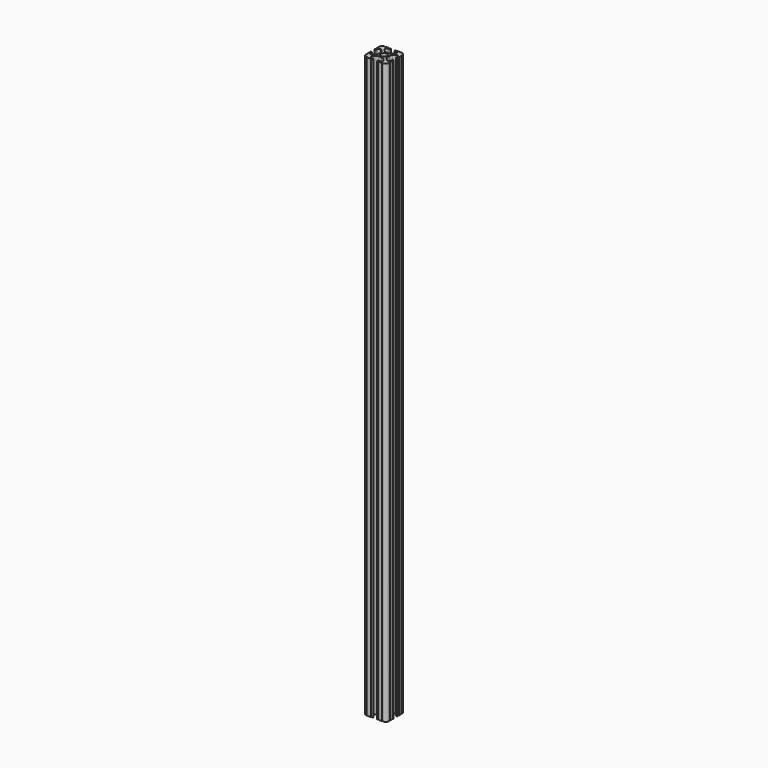
from build123d import *

# Parameters (mm, degrees)
F0_R     = 3.362501
F1_DEPTH = 635


with BuildPart() as f1:
    # F0 (on Top) → F1 (new body)
    with BuildSketch(Plane.XY):
        with BuildLine():
            ThreePointArc((-8.548576, 18.755238), (-9.784629, 17.929334), (-11.242653, 17.639315))
            Line((-11.242653, 17.639315), (-14.157347, 17.639315))
            ThreePointArc((-14.157347, 17.639315), (-15.615371, 17.929334), (-16.851424, 18.755238))
            Line((-16.851424, 18.755238), (-18.696905, 20.600719))
            ThreePointArc((-18.696905, 20.600719), (-19.109857, 22.67677), (-17.349867, 23.852758))
            Line((-17.349867, 23.852758), (-15.615371, 23.852758))
            Line((-15.615371, 23.852758), (-15.58302, 23.852758))
            ThreePointArc((-15.58302, 23.852758), (-14.825405, 24.626379), (-15.58302, 25.4))
            Line((-15.58302, 25.4), (-15.615371, 25.4))
            Line((-15.615371, 25.4), (-16.253341, 25.4))
            ThreePointArc((-16.253341, 25.4), (-16.801604, 24.858772), (-17.349867, 25.4))
            Line((-17.349867, 25.4), (-20.487482, 25.4))
            ThreePointArc((-20.487482, 25.4), (-21.038741, 24.848741), (-21.59, 25.4))
            ThreePointArc((-21.59, 25.4), (-24.284077, 24.284077), (-25.4, 21.59))
            Line((-25.4, 21.59), (-25.4, 20.504724))
            Line((-25.4, 20.504724), (-25.4, 17.349867))
            ThreePointArc((-25.4, 17.349867), (-24.844161, 16.802675), (-25.4, 16.255483))
            Line((-25.4, 16.255483), (-25.4, 15.615371))
            ThreePointArc((-25.4, 15.615371), (-24.626379, 14.859554), (-23.852758, 15.615371))
            Line((-23.852758, 15.615371), (-23.852758, 17.349867))
            ThreePointArc((-23.852758, 17.349867), (-22.67677, 19.109857), (-20.600719, 18.696905))
            Line((-20.600719, 18.696905), (-18.755238, 16.851424))
            ThreePointArc((-18.755238, 16.851424), (-17.929334, 15.615371), (-17.639315, 14.157347))
            Line((-17.639315, 14.157347), (-17.639315, 11.242653))
            ThreePointArc((-17.639315, 11.242653), (-17.929334, 9.784629), (-18.755238, 8.548576))
            Line((-18.755238, 8.548576), (-20.600719, 6.703095))
            ThreePointArc((-20.600719, 6.703095), (-22.67677, 6.290143), (-23.852758, 8.050133))
            Line((-23.852758, 8.050133), (-23.852758, 9.784629))
            ThreePointArc((-23.852758, 9.784629), (-24.626379, 10.55825), (-25.4, 9.784629))
            Line((-25.4, 9.784629), (-25.4, 9.149239))
            ThreePointArc((-25.4, 9.149239), (-24.899374, 8.599686), (-25.4, 8.050133))
            Line((-25.4, 8.050133), (-25.4, 4.904538))
            ThreePointArc((-25.4, 4.904538), (-24.846216, 4.357269), (-25.4, 3.81))
            ThreePointArc((-25.4, 3.81), (-24.284077, 1.115923), (-21.59, 0))
            ThreePointArc((-21.59, 0), (-21.040817, 0.554885), (-20.491634, 0))
            Line((-20.491634, 0), (-16.708169, 0))
            ThreePointArc((-16.708169, 0), (-16.16177, 0.540135), (-15.615371, 0))
            ThreePointArc((-15.615371, 0), (-14.854184, 0.7747), (-15.615371, 1.5494))
            Line((-15.615371, 1.5494), (-17.347709, 1.5494))
            ThreePointArc((-17.347709, 1.5494), (-19.107699, 2.725388), (-18.694747, 4.801438))
            Line((-18.694747, 4.801438), (-16.851424, 6.644762))
            ThreePointArc((-16.851424, 6.644762), (-15.615371, 7.470666), (-14.157347, 7.760685))
            Line((-14.157347, 7.760685), (-11.242653, 7.760685))
            ThreePointArc((-11.242653, 7.760685), (-9.784629, 7.470666), (-8.548576, 6.644762))
            Line((-8.548576, 6.644762), (-6.705253, 4.801438))
            ThreePointArc((-6.705253, 4.801438), (-6.292301, 2.725388), (-8.052291, 1.5494))
            Line((-8.052291, 1.5494), (-9.784629, 1.5494))
            ThreePointArc((-9.784629, 1.5494), (-10.401836, 0.7747), (-9.784629, 0))
            Line((-9.784629, 0), (-9.152868, 0))
            ThreePointArc((-9.152868, 0), (-8.602579, 0.545262), (-8.052291, 0))
            Line((-8.052291, 0), (-4.898866, 0))
            ThreePointArc((-4.898866, 0), (-4.354433, 0.544433), (-3.81, 0))
            ThreePointArc((-3.81, 0), (-1.115923, 1.115923), (0, 3.81))
            ThreePointArc((0, 3.81), (-0.53938, 4.3561), (0, 4.9022))
            Line((0, 4.9022), (0, 8.052291))
            ThreePointArc((0, 8.052291), (-0.543517, 8.60166), (0, 9.151029))
            Line((0, 9.151029), (0, 9.784629))
            ThreePointArc((0, 9.784629), (-0.7747, 10.504691), (-1.5494, 9.784629))
            Line((-1.5494, 9.784629), (-1.5494, 8.052291))
            ThreePointArc((-1.5494, 8.052291), (-2.725388, 6.292301), (-4.801438, 6.705253))
            Line((-4.801438, 6.705253), (-6.644762, 8.548576))
            ThreePointArc((-6.644762, 8.548576), (-7.470666, 9.784629), (-7.760685, 11.242653))
            Line((-7.760685, 11.242653), (-7.760685, 14.157347))
            ThreePointArc((-7.760685, 14.157347), (-7.470666, 15.615371), (-6.644762, 16.851424))
            Line((-6.644762, 16.851424), (-4.801438, 18.694747))
            ThreePointArc((-4.801438, 18.694747), (-2.725388, 19.107699), (-1.5494, 17.347709))
            Line((-1.5494, 17.347709), (-1.5494, 15.615371))
            ThreePointArc((-1.5494, 15.615371), (-0.7747, 14.879405), (0, 15.615371))
            Line((0, 15.615371), (0, 16.255509))
            ThreePointArc((0, 16.255509), (-0.5461, 16.801609), (0, 17.347709))
            Line((0, 17.347709), (0, 20.495165))
            ThreePointArc((0, 20.495165), (-0.551056, 21.042583), (0, 21.59))
            ThreePointArc((0, 21.59), (-1.115923, 24.284077), (-3.81, 25.4))
            ThreePointArc((-3.81, 25.4), (-4.365303, 24.903619), (-4.920606, 25.4))
            Line((-4.920606, 25.4), (-8.050133, 25.4))
            ThreePointArc((-8.050133, 25.4), (-8.596365, 24.859433), (-9.142596, 25.4))
            Line((-9.142596, 25.4), (-9.784629, 25.4))
            Line((-9.784629, 25.4), (-9.856203, 25.4))
            ThreePointArc((-9.856203, 25.4), (-10.594864, 24.626379), (-9.856203, 23.852758))
            Line((-9.856203, 23.852758), (-9.784629, 23.852758))
            Line((-9.784629, 23.852758), (-8.050133, 23.852758))
            ThreePointArc((-8.050133, 23.852758), (-6.290143, 22.67677), (-6.703095, 20.600719))
            Line((-6.703095, 20.600719), (-8.548576, 18.755238))
        make_face()
        with Locations((-12.7, 12.7)):
            Circle(F0_R, mode=Mode.SUBTRACT)
        with BuildLine():
            ThreePointArc((-9.856203, 23.852758), (-9.820416, 23.851931), (-9.784629, 23.852758))
            Line((-9.784629, 23.852758), (-9.856203, 23.852758))
        make_face()
        with BuildLine():
            Line((-15.58302, 23.852758), (-15.615371, 23.852758))
            ThreePointArc((-15.615371, 23.852758), (-15.599195, 23.852589), (-15.58302, 23.852758))
        make_face()
        with BuildLine():
            ThreePointArc((-9.784629, 25.4), (-9.820416, 25.400827), (-9.856203, 25.4))
            Line((-9.856203, 25.4), (-9.784629, 25.4))
        make_face()
        with BuildLine():
            Line((-15.615371, 25.4), (-15.58302, 25.4))
            ThreePointArc((-15.58302, 25.4), (-15.599195, 25.400169), (-15.615371, 25.4))
        make_face()
    extrude(amount=F1_DEPTH)


solid = f1.part
